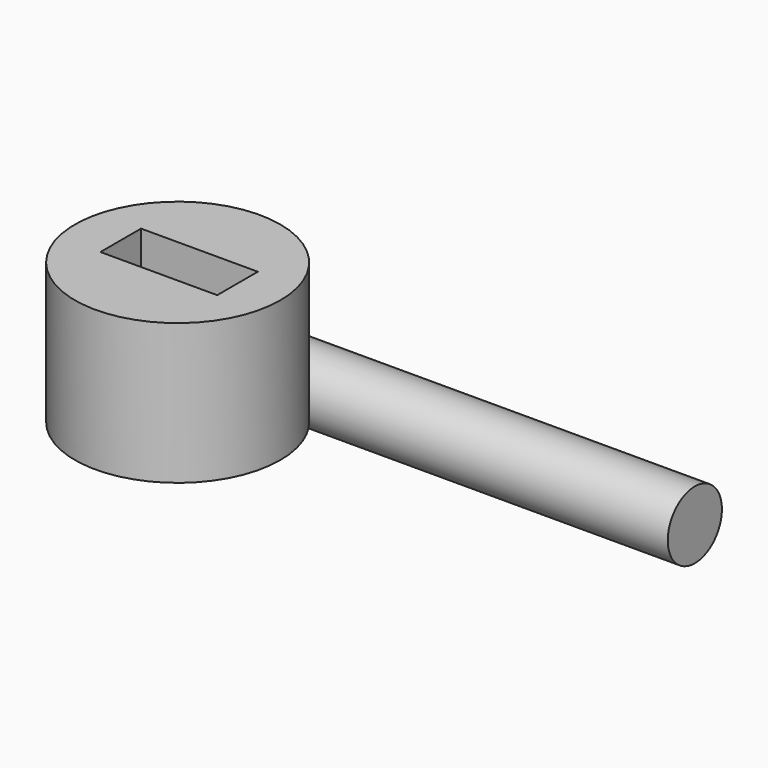
from build123d import *

# Parameters (mm, degrees)
F0_R     = 42.663936
F0_W     = 48.506476
F0_H     = 21.089772
F1_DEPTH = 58.42
F2_R     = 14.066335
F3_DEPTH = 176.022


with BuildPart() as f1:
    # F0 (on Top) → F1 (new body)
    with BuildSketch(Plane.XY):
        Circle(F0_R)
        with Locations((0.155626, 0.580798)):
            Rectangle(F0_W, F0_H, mode=Mode.SUBTRACT)
    extrude(amount=F1_DEPTH)

    # F2 (on Right) → F3 (join)
    with BuildSketch(Plane.YZ):
        with Locations((48.469957, 0)):
            Circle(F2_R)
    extrude(amount=F3_DEPTH)


solid = f1.part
